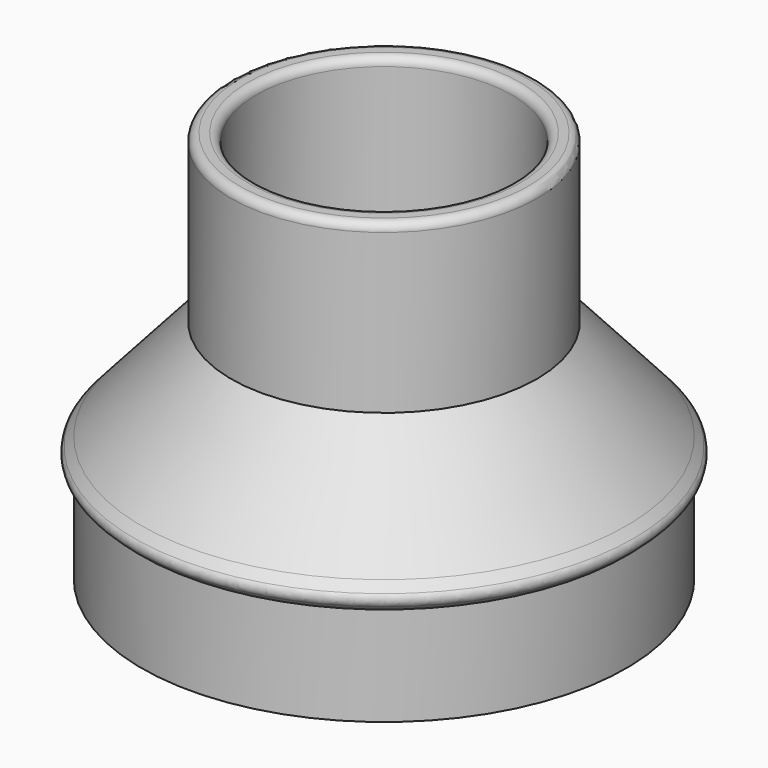
from build123d import *

# Parameters (mm, degrees)
F2_R = 1


with BuildPart() as f1:
    # F0 (on Right) → F1 (revolve)
    with BuildSketch(Plane.YZ):
        Polygon((26, 0), (29, 0), (29, 11.849178), (30.565111, 13.244735), (29, 15), (18.3, 27), (18.3, 47), (15.3, 47), (15.3, 25.856741), (26, 13.856741), align=None)
    revolve(axis=Axis((0, 0, 23.5), (0, 0, 1)))

    # F2
    f2_edges = [f1.edges().sort_by_distance(p)[0] for p in [
        (0, -18.3, 47),
        (0, -15.3, 47),
        (0, -30.565111, 13.244735),
    ]]
    fillet(f2_edges, radius=F2_R)


solid = f1.part
